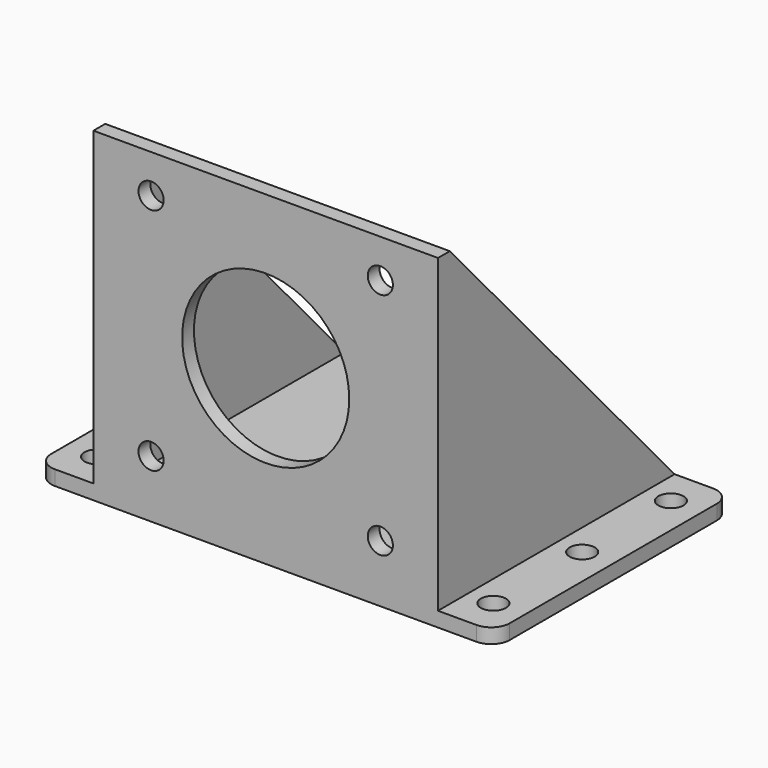
from build123d import *

# Parameters (mm, degrees)
PAD_DEPTH       = 31
POCKET_DEPTH    = 42
SKETCH002_R     = 1.7
POCKET001_DEPTH = 44.001
SKETCH003_R     = 1.7
SKETCH003_R_2   = 11.3
POCKET002_DEPTH = 40.001
FILLET_R        = 2.5


with BuildPart() as part:
    # Sketch → Pad (new body, symmetric)
    with BuildSketch(Plane.YZ):
        Polygon((0, 44), (2, 44), (40, 2), (40, 0), (0, 0), align=None)
    extrude(amount=PAD_DEPTH, both=True)

    # Sketch001 → Pocket (cut)
    with BuildSketch(Plane.XY.offset(44)):
        Polygon((-32, 42), (-32, -1), (-23.3, -1), (-23.3, 41), (-21.3, 41), (-21.3, 2), (21.3, 2), (21.3, 41), (23.3, 41), (23.3, -1), (32, -1), (32, 42), align=None)
    extrude(amount=-POCKET_DEPTH, mode=Mode.SUBTRACT)

    # Sketch002 → Pocket001 (cut, through all)
    with BuildSketch(Plane.XY):
        with Locations((-26.8, 35)):
            Circle(SKETCH002_R)
        with Locations((-26.8, 20)):
            Circle(SKETCH002_R)
        with Locations((-26.8, 5)):
            Circle(SKETCH002_R)
        with Locations((26.8, 35)):
            Circle(SKETCH002_R)
        with Locations((26.8, 20)):
            Circle(SKETCH002_R)
        with Locations((26.8, 5)):
            Circle(SKETCH002_R)
    extrude(amount=POCKET001_DEPTH, mode=Mode.SUBTRACT)

    # Sketch003 → Pocket002 (cut, through all)
    with BuildSketch(Plane.XZ):
        with Locations((-15.5, 38.8)):
            Circle(SKETCH003_R)
        with Locations((15.5, 38.8)):
            Circle(SKETCH003_R)
        with Locations((15.5, 7.8)):
            Circle(SKETCH003_R)
        with Locations((-15.5, 7.8)):
            Circle(SKETCH003_R)
        with Locations((0, 23.3)):
            Circle(SKETCH003_R_2)
    extrude(amount=-POCKET002_DEPTH, mode=Mode.SUBTRACT)

    # Fillet
    fillet_edges = [part.edges().sort_by_distance(p)[0] for p in [
        (31, 40, 1),
        (31, 0, 1),
        (-31, 40, 1),
        (-31, 0, 1),
    ]]
    fillet(fillet_edges, radius=FILLET_R)


solid = part.part
